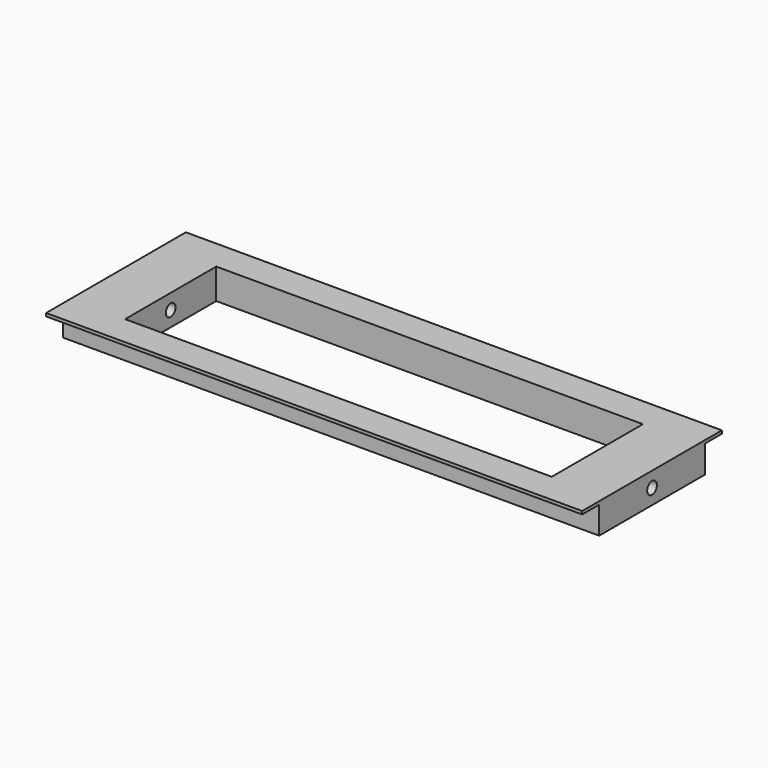
from build123d import *

# Parameters (mm, degrees)
F0_W     = 224.0026
F0_H     = 72.9996
F1_DEPTH = 12.7
F2_W     = 178.2826
F2_H     = 47.5996
F2_W_2   = 173.2026
F2_H_2   = 22.1996
F3_DEPTH = 25.4
F4_W     = 8.89
F4_H     = 11.43
F5_DEPTH = 508
F6_W     = 8.89
F6_H     = 11.43
F7_DEPTH = 508
F8_R     = 2.54
F9_DEPTH = 508


with BuildPart() as f1:
    # F0 (on Top) → F1 (new body)
    with BuildSketch(Plane.XY):
        Rectangle(F0_W, F0_H)
    extrude(amount=F1_DEPTH)

    # F2 (on face) → F3 (cut)
    with BuildSketch(Plane.XY.offset(12.7)):
        Rectangle(F2_W, F2_H)
        Rectangle(F2_W_2, F2_H_2, mode=Mode.SUBTRACT)
        Rectangle(F2_W_2, F2_H_2)
    extrude(amount=-F3_DEPTH, mode=Mode.SUBTRACT)

    # F4 (on face) → F5 (cut)
    with BuildSketch(Plane.YZ.offset(112.0013)):
        with Locations((-32.0548, 5.715)):
            Rectangle(F4_W, F4_H)
    extrude(amount=-F5_DEPTH, mode=Mode.SUBTRACT)

    # F6 (on face) → F7 (cut)
    with BuildSketch(Plane.YZ.offset(112.0013)):
        with Locations((32.0548, 5.715)):
            Rectangle(F6_W, F6_H)
    extrude(amount=-F7_DEPTH, mode=Mode.SUBTRACT)

    # F8 (on face) → F9 (cut)
    with BuildSketch(Plane.YZ.offset(112.0013)):
        with Locations((0, 6.35)):
            Circle(F8_R)
    extrude(amount=-F9_DEPTH, mode=Mode.SUBTRACT)


solid = f1.part
